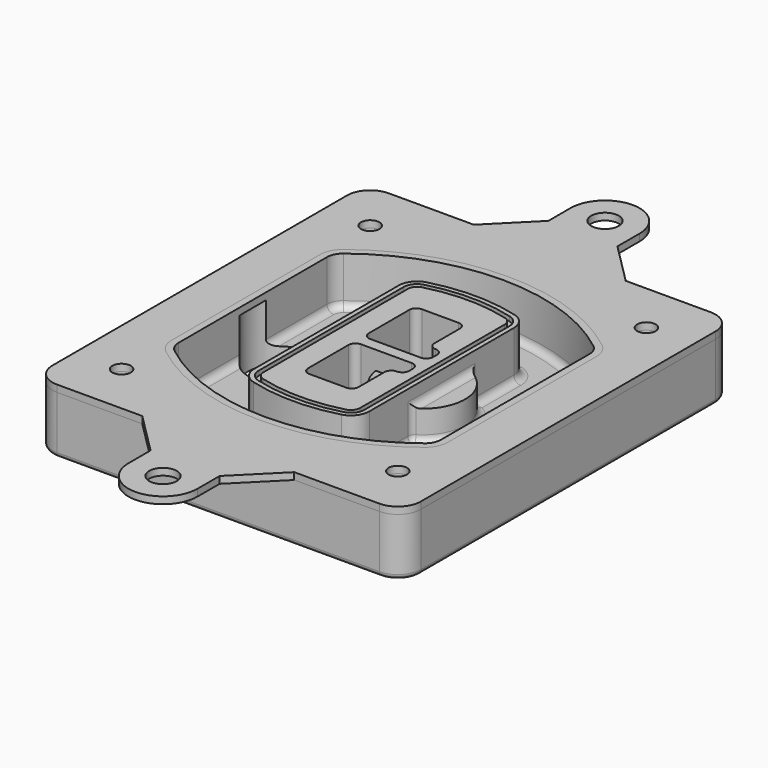
from build123d import *

# Parameters (mm, degrees)
F0_R      = 4
F1_DEPTH  = 25
F2_DEPTH  = 3
F3_DEPTH  = 18
F5_DEPTH  = 21
F6_DEPTH  = 2
F8_DEPTH  = 20
F9_DEPTH  = 16
F10_DEPTH = 25
F7_R      = 6
F7_R_2    = 4
F11_DEPTH = 6
F13_DEPTH = 9
F14_R     = 3
F15_R     = 2
F16_R     = 4
F16_R_2   = 6
F17_DEPTH = 3


with BuildPart() as f1:
    # F0 (on Top) → F1 (new body)
    with BuildSketch(Plane.XY):
        with BuildLine():
            ThreePointArc((-80, -80), (-77.0710678119, -87.0710678119), (-70, -90))
            Line((-70, -90), (70, -90))
            ThreePointArc((70, -90), (77.0710678119, -87.0710678119), (80, -80))
            Line((80, -80), (80, 80))
            ThreePointArc((80, 80), (77.0710678119, 87.0710678119), (70, 90))
            Line((70, 90), (-70, 90))
            ThreePointArc((-70, 90), (-77.0710678119, 87.0710678119), (-80, 80))
            Line((-80, 80), (-80, -80))
        make_face()
        with Locations((-60, -67.5)):
            Circle(F0_R, mode=Mode.SUBTRACT)
        with Locations((60, -67.5)):
            Circle(F0_R, mode=Mode.SUBTRACT)
        with Locations((-60, 67.5)):
            Circle(F0_R, mode=Mode.SUBTRACT)
        with BuildLine():
            ThreePointArc((-64, 40.2934422872), (-62.5820384798, 46.4328484224), (-58.6153846154, 51.3286200352))
            ThreePointArc((-58.6153846154, 51.3286200352), (0, 71.5), (58.6153846154, 51.3286200352))
            ThreePointArc((58.6153846154, 51.3286200352), (62.5820384798, 46.4328484224), (64, 40.2934422872))
            Line((64, 40.2934422872), (64, -40.2934422872))
            ThreePointArc((64, -40.2934422872), (62.5820384798, -46.4328484224), (58.6153846154, -51.3286200352))
            ThreePointArc((58.6153846154, -51.3286200352), (0, -71.5), (-58.6153846154, -51.3286200352))
            ThreePointArc((-58.6153846154, -51.3286200352), (-62.5820384798, -46.4328484224), (-64, -40.2934422872))
            Line((-64, -40.2934422872), (-64, 40.2934422872))
        make_face(mode=Mode.SUBTRACT)
        with Locations((60, 67.5)):
            Circle(F0_R, mode=Mode.SUBTRACT)
        with BuildLine():
            ThreePointArc((58.6153846154, 51.3286200352), (0, 71.5), (-58.6153846154, 51.3286200352))
            ThreePointArc((-58.6153846154, 51.3286200352), (-62.5820384798, 46.4328484224), (-64, 40.2934422872))
            Line((-64, 40.2934422872), (-64, -40.2934422872))
            ThreePointArc((-64, -40.2934422872), (-62.5820384798, -46.4328484224), (-58.6153846154, -51.3286200352))
            ThreePointArc((-58.6153846154, -51.3286200352), (0, -71.5), (58.6153846154, -51.3286200352))
            ThreePointArc((58.6153846154, -51.3286200352), (62.5820384798, -46.4328484224), (64, -40.2934422872))
            Line((64, -40.2934422872), (64, 40.2934422872))
            ThreePointArc((64, 40.2934422872), (62.5820384798, 46.4328484224), (58.6153846154, 51.3286200352))
        make_face()
        with BuildLine():
            Line((-60, -40.2934422872), (-60, 40.2934422872))
            ThreePointArc((-60, 40.2934422872), (-58.9871703427, 44.6787323838), (-56.1538461538, 48.1757121072))
            ThreePointArc((-56.1538461538, 48.1757121072), (0, 67.5), (56.1538461538, 48.1757121072))
            ThreePointArc((56.1538461538, 48.1757121072), (58.9871703427, 44.6787323838), (60, 40.2934422872))
            Line((60, 40.2934422872), (60, -40.2934422872))
            ThreePointArc((60, -40.2934422872), (58.9871703427, -44.6787323838), (56.1538461538, -48.1757121072))
            ThreePointArc((56.1538461538, -48.1757121072), (0, -67.5), (-56.1538461538, -48.1757121072))
            ThreePointArc((-56.1538461538, -48.1757121072), (-58.9871703427, -44.6787323838), (-60, -40.2934422872))
        make_face(mode=Mode.SUBTRACT)
        with BuildLine():
            ThreePointArc((-56.1538461538, 48.1757121072), (-58.9871703427, 44.6787323838), (-60, 40.2934422872))
            Line((-60, 40.2934422872), (-60, -40.2934422872))
            ThreePointArc((-60, -40.2934422872), (-58.9871703427, -44.6787323838), (-56.1538461538, -48.1757121072))
            ThreePointArc((-56.1538461538, -48.1757121072), (0, -67.5), (56.1538461538, -48.1757121072))
            ThreePointArc((56.1538461538, -48.1757121072), (58.9871703427, -44.6787323838), (60, -40.2934422872))
            Line((60, -40.2934422872), (60, 40.2934422872))
            ThreePointArc((60, 40.2934422872), (58.9871703427, 44.6787323838), (56.1538461538, 48.1757121072))
            ThreePointArc((56.1538461538, 48.1757121072), (0, 67.5), (-56.1538461538, 48.1757121072))
        make_face()
        with BuildLine():
            ThreePointArc((54.3076923077, 45.8110311612), (56.2910192399, 43.3631453548), (57, 40.2934422872))
            Line((57, 40.2934422872), (57, -40.2934422872))
            ThreePointArc((57, -40.2934422872), (56.2910192399, -43.3631453548), (54.3076923077, -45.8110311612))
            ThreePointArc((54.3076923077, -45.8110311612), (0, -64.5), (-54.3076923077, -45.8110311612))
            ThreePointArc((-54.3076923077, -45.8110311612), (-56.2910192399, -43.3631453548), (-57, -40.2934422872))
            Line((-57, -40.2934422872), (-57, 40.2934422872))
            ThreePointArc((-57, 40.2934422872), (-56.2910192399, 43.3631453548), (-54.3076923077, 45.8110311612))
            ThreePointArc((-54.3076923077, 45.8110311612), (0, 64.5), (54.3076923077, 45.8110311612))
        make_face(mode=Mode.SUBTRACT)
        with BuildLine():
            Line((57, -40.2934422872), (57, 40.2934422872))
            ThreePointArc((57, 40.2934422872), (56.2910192399, 43.3631453548), (54.3076923077, 45.8110311612))
            ThreePointArc((54.3076923077, 45.8110311612), (0, 64.5), (-54.3076923077, 45.8110311612))
            ThreePointArc((-54.3076923077, 45.8110311612), (-56.2910192399, 43.3631453548), (-57, 40.2934422872))
            Line((-57, 40.2934422872), (-57, -40.2934422872))
            ThreePointArc((-57, -40.2934422872), (-56.2910192399, -43.3631453548), (-54.3076923077, -45.8110311612))
            ThreePointArc((-54.3076923077, -45.8110311612), (0, -64.5), (54.3076923077, -45.8110311612))
            ThreePointArc((54.3076923077, -45.8110311612), (56.2910192399, -43.3631453548), (57, -40.2934422872))
        make_face()
    extrude(amount=-F1_DEPTH)

    # F0 (on Top) → F2 (join)
    with BuildSketch(Plane.XY):
        with BuildLine():
            ThreePointArc((-56.1538461538, 48.1757121072), (-58.9871703427, 44.6787323838), (-60, 40.2934422872))
            Line((-60, 40.2934422872), (-60, -40.2934422872))
            ThreePointArc((-60, -40.2934422872), (-58.9871703427, -44.6787323838), (-56.1538461538, -48.1757121072))
            ThreePointArc((-56.1538461538, -48.1757121072), (0, -67.5), (56.1538461538, -48.1757121072))
            ThreePointArc((56.1538461538, -48.1757121072), (58.9871703427, -44.6787323838), (60, -40.2934422872))
            Line((60, -40.2934422872), (60, 40.2934422872))
            ThreePointArc((60, 40.2934422872), (58.9871703427, 44.6787323838), (56.1538461538, 48.1757121072))
            ThreePointArc((56.1538461538, 48.1757121072), (0, 67.5), (-56.1538461538, 48.1757121072))
        make_face()
        with BuildLine():
            ThreePointArc((54.3076923077, 45.8110311612), (56.2910192399, 43.3631453548), (57, 40.2934422872))
            Line((57, 40.2934422872), (57, -40.2934422872))
            ThreePointArc((57, -40.2934422872), (56.2910192399, -43.3631453548), (54.3076923077, -45.8110311612))
            ThreePointArc((54.3076923077, -45.8110311612), (0, -64.5), (-54.3076923077, -45.8110311612))
            ThreePointArc((-54.3076923077, -45.8110311612), (-56.2910192399, -43.3631453548), (-57, -40.2934422872))
            Line((-57, -40.2934422872), (-57, 40.2934422872))
            ThreePointArc((-57, 40.2934422872), (-56.2910192399, 43.3631453548), (-54.3076923077, 45.8110311612))
            ThreePointArc((-54.3076923077, 45.8110311612), (0, 64.5), (54.3076923077, 45.8110311612))
        make_face(mode=Mode.SUBTRACT)
    extrude(amount=F2_DEPTH)

    # F0 (on Top) → F3 (cut)
    with BuildSketch(Plane.XY):
        with BuildLine():
            Line((57, -40.2934422872), (57, 40.2934422872))
            ThreePointArc((57, 40.2934422872), (56.2910192399, 43.3631453548), (54.3076923077, 45.8110311612))
            ThreePointArc((54.3076923077, 45.8110311612), (0, 64.5), (-54.3076923077, 45.8110311612))
            ThreePointArc((-54.3076923077, 45.8110311612), (-56.2910192399, 43.3631453548), (-57, 40.2934422872))
            Line((-57, 40.2934422872), (-57, -40.2934422872))
            ThreePointArc((-57, -40.2934422872), (-56.2910192399, -43.3631453548), (-54.3076923077, -45.8110311612))
            ThreePointArc((-54.3076923077, -45.8110311612), (0, -64.5), (54.3076923077, -45.8110311612))
            ThreePointArc((54.3076923077, -45.8110311612), (56.2910192399, -43.3631453548), (57, -40.2934422872))
        make_face()
    extrude(amount=-F3_DEPTH, mode=Mode.SUBTRACT)

    # F4 (on face) → F5 (join, through all)
    with BuildSketch(Plane.XY.offset(3)):
        with BuildLine():
            ThreePointArc((-25, -39.2465276821), (-23.3511545998, -44.1109737193), (-19.0842911877, -46.9702398883))
            ThreePointArc((-19.0842911877, -46.9702398883), (0, -49.5), (19.0842911877, -46.9702398883))
            ThreePointArc((19.0842911877, -46.9702398883), (23.3511545998, -44.1109737193), (25, -39.2465276821))
            Line((25, -39.2465276821), (25, 39.2465276821))
            ThreePointArc((25, 39.2465276821), (23.3511545998, 44.1109737193), (19.0842911877, 46.9702398883))
            ThreePointArc((19.0842911877, 46.9702398883), (0, 49.5), (-19.0842911877, 46.9702398883))
            ThreePointArc((-19.0842911877, 46.9702398883), (-23.3511545998, 44.1109737193), (-25, 39.2465276821))
            Line((-25, 39.2465276821), (-25, -39.2465276821))
        make_face()
        with BuildLine():
            ThreePointArc((18.5632183908, 45.0393118368), (21.7633659499, 42.89486221), (23, 39.2465276821))
            Line((23, 39.2465276821), (23, -39.2465276821))
            ThreePointArc((23, -39.2465276821), (21.7633659499, -42.89486221), (18.5632183908, -45.0393118368))
            ThreePointArc((18.5632183908, -45.0393118368), (0, -47.5), (-18.5632183908, -45.0393118368))
            ThreePointArc((-18.5632183908, -45.0393118368), (-21.7633659499, -42.89486221), (-23, -39.2465276821))
            Line((-23, -39.2465276821), (-23, 39.2465276821))
            ThreePointArc((-23, 39.2465276821), (-21.7633659499, 42.89486221), (-18.5632183908, 45.0393118368))
            ThreePointArc((-18.5632183908, 45.0393118368), (0, 47.5), (18.5632183908, 45.0393118368))
        make_face(mode=Mode.SUBTRACT)
        with BuildLine():
            Line((23, -39.2465276821), (23, 39.2465276821))
            ThreePointArc((23, 39.2465276821), (21.7633659499, 42.89486221), (18.5632183908, 45.0393118368))
            ThreePointArc((18.5632183908, 45.0393118368), (0, 47.5), (-18.5632183908, 45.0393118368))
            ThreePointArc((-18.5632183908, 45.0393118368), (-21.7633659499, 42.89486221), (-23, 39.2465276821))
            Line((-23, 39.2465276821), (-23, -39.2465276821))
            ThreePointArc((-23, -39.2465276821), (-21.7633659499, -42.89486221), (-18.5632183908, -45.0393118368))
            ThreePointArc((-18.5632183908, -45.0393118368), (0, -47.5), (18.5632183908, -45.0393118368))
            ThreePointArc((18.5632183908, -45.0393118368), (21.7633659499, -42.89486221), (23, -39.2465276821))
        make_face()
        with BuildLine():
            ThreePointArc((18.0421455939, 43.1083837852), (20.1755772999, 41.6787507007), (21, 39.2465276821))
            Line((21, 39.2465276821), (21, -39.2465276821))
            ThreePointArc((21, -39.2465276821), (20.1755772999, -41.6787507007), (18.0421455939, -43.1083837852))
            ThreePointArc((18.0421455939, -43.1083837852), (0, -45.5), (-18.0421455939, -43.1083837852))
            ThreePointArc((-18.0421455939, -43.1083837852), (-20.1755772999, -41.6787507007), (-21, -39.2465276821))
            Line((-21, -39.2465276821), (-21, 39.2465276821))
            ThreePointArc((-21, 39.2465276821), (-20.1755772999, 41.6787507007), (-18.0421455939, 43.1083837852))
            ThreePointArc((-18.0421455939, 43.1083837852), (0, 45.5), (18.0421455939, 43.1083837852))
        make_face(mode=Mode.SUBTRACT)
        with BuildLine():
            Line((21, -39.2465276821), (21, 39.2465276821))
            ThreePointArc((21, 39.2465276821), (20.1755772999, 41.6787507007), (18.0421455939, 43.1083837852))
            ThreePointArc((18.0421455939, 43.1083837852), (0, 45.5), (-18.0421455939, 43.1083837852))
            ThreePointArc((-18.0421455939, 43.1083837852), (-20.1755772999, 41.6787507007), (-21, 39.2465276821))
            Line((-21, 39.2465276821), (-21, -39.2465276821))
            ThreePointArc((-21, -39.2465276821), (-20.1755772999, -41.6787507007), (-18.0421455939, -43.1083837852))
            ThreePointArc((-18.0421455939, -43.1083837852), (0, -45.5), (18.0421455939, -43.1083837852))
            ThreePointArc((18.0421455939, -43.1083837852), (20.1755772999, -41.6787507007), (21, -39.2465276821))
        make_face()
        with BuildLine():
            Line((-8, -2.5), (14, -2.5))
            ThreePointArc((14, -2.5), (16.1213203436, -3.3786796564), (17, -5.5))
            Line((17, -5.5), (17, -7.5))
            ThreePointArc((17, -7.5), (16.1213203436, -9.6213203436), (14, -10.5))
            ThreePointArc((14, -10.5), (11.8786796564, -11.3786796564), (11, -13.5))
            Line((11, -13.5), (11, -27.5))
            ThreePointArc((11, -27.5), (10.1213203436, -29.6213203436), (8, -30.5))
            Line((8, -30.5), (-8, -30.5))
            ThreePointArc((-8, -30.5), (-10.1213203436, -29.6213203436), (-11, -27.5))
            Line((-11, -27.5), (-11, -5.5))
            ThreePointArc((-11, -5.5), (-10.1213203436, -3.3786796564), (-8, -2.5))
        make_face(mode=Mode.SUBTRACT)
        with BuildLine():
            ThreePointArc((-8, 2.5), (-10.1213203436, 3.3786796564), (-11, 5.5))
            Line((-11, 5.5), (-11, 27.5))
            ThreePointArc((-11, 27.5), (-10.1213203436, 29.6213203436), (-8, 30.5))
            Line((-8, 30.5), (8, 30.5))
            ThreePointArc((8, 30.5), (10.1213203436, 29.6213203436), (11, 27.5))
            Line((11, 27.5), (11, 13.5))
            ThreePointArc((11, 13.5), (11.8786796564, 11.3786796564), (14, 10.5))
            ThreePointArc((14, 10.5), (16.1213203436, 9.6213203436), (17, 7.5))
            Line((17, 7.5), (17, 5.5))
            ThreePointArc((17, 5.5), (16.1213203436, 3.3786796564), (14, 2.5))
            Line((14, 2.5), (-8, 2.5))
        make_face(mode=Mode.SUBTRACT)
    extrude(amount=-F5_DEPTH)

    # F4 (on face) → F6 (cut)
    with BuildSketch(Plane.XY.offset(3)):
        with BuildLine():
            Line((23, -39.2465276821), (23, 39.2465276821))
            ThreePointArc((23, 39.2465276821), (21.7633659499, 42.89486221), (18.5632183908, 45.0393118368))
            ThreePointArc((18.5632183908, 45.0393118368), (0, 47.5), (-18.5632183908, 45.0393118368))
            ThreePointArc((-18.5632183908, 45.0393118368), (-21.7633659499, 42.89486221), (-23, 39.2465276821))
            Line((-23, 39.2465276821), (-23, -39.2465276821))
            ThreePointArc((-23, -39.2465276821), (-21.7633659499, -42.89486221), (-18.5632183908, -45.0393118368))
            ThreePointArc((-18.5632183908, -45.0393118368), (0, -47.5), (18.5632183908, -45.0393118368))
            ThreePointArc((18.5632183908, -45.0393118368), (21.7633659499, -42.89486221), (23, -39.2465276821))
        make_face()
        with BuildLine():
            ThreePointArc((18.0421455939, 43.1083837852), (20.1755772999, 41.6787507007), (21, 39.2465276821))
            Line((21, 39.2465276821), (21, -39.2465276821))
            ThreePointArc((21, -39.2465276821), (20.1755772999, -41.6787507007), (18.0421455939, -43.1083837852))
            ThreePointArc((18.0421455939, -43.1083837852), (0, -45.5), (-18.0421455939, -43.1083837852))
            ThreePointArc((-18.0421455939, -43.1083837852), (-20.1755772999, -41.6787507007), (-21, -39.2465276821))
            Line((-21, -39.2465276821), (-21, 39.2465276821))
            ThreePointArc((-21, 39.2465276821), (-20.1755772999, 41.6787507007), (-18.0421455939, 43.1083837852))
            ThreePointArc((-18.0421455939, 43.1083837852), (0, 45.5), (18.0421455939, 43.1083837852))
        make_face(mode=Mode.SUBTRACT)
    extrude(amount=-F6_DEPTH, mode=Mode.SUBTRACT)

    # F7 (on face) → F8 (join)
    with BuildSketch(Plane(origin=(0, 0, -25), x_dir=(1, 0, 0), z_dir=(0, 0, -1))):
        with BuildLine():
            ThreePointArc((3.28842436, 0), (16.7567035675, 13.4682792075), (30.224982775, 0))
            Line((30.224982775, 0), (35.224982775, 0))
            ThreePointArc((35.224982775, 0), (16.7567035675, 18.4682792075), (-1.71157564, 0))
            Line((-1.71157564, 0), (3.28842436, 0))
        make_face()
        with BuildLine():
            Line((3.28842436, 0), (30.224982775, 0))
            ThreePointArc((30.224982775, 0), (16.7567035675, 13.4682792075), (3.28842436, 0))
        make_face()
        with BuildLine():
            ThreePointArc((3.28842436, 0), (16.7567035675, -13.4682792075), (30.224982775, 0))
            Line((30.224982775, 0), (3.28842436, 0))
        make_face()
        with BuildLine():
            Line((35.224982775, 0), (30.224982775, 0))
            ThreePointArc((30.224982775, 0), (16.7567035675, -13.4682792075), (3.28842436, 0))
            Line((3.28842436, 0), (-1.71157564, 0))
            ThreePointArc((-1.71157564, 0), (16.7567035675, -18.4682792075), (35.224982775, 0))
        make_face()
    extrude(amount=-F8_DEPTH)

    # F7 (on face) → F9 (cut)
    with BuildSketch(Plane(origin=(0, 0, -25), x_dir=(1, 0, 0), z_dir=(0, 0, -1))):
        with BuildLine():
            Line((3.28842436, 0), (30.224982775, 0))
            ThreePointArc((30.224982775, 0), (16.7567035675, 13.4682792075), (3.28842436, 0))
        make_face()
        with BuildLine():
            ThreePointArc((3.28842436, 0), (16.7567035675, -13.4682792075), (30.224982775, 0))
            Line((30.224982775, 0), (3.28842436, 0))
        make_face()
    extrude(amount=-F9_DEPTH, mode=Mode.SUBTRACT)

    # F7 (on face) → F10 (cut)
    with BuildSketch(Plane(origin=(0, 0, -25), x_dir=(1, 0, 0), z_dir=(0, 0, -1))):
        with BuildLine():
            Line((-59.0318229325, 0), (-32.0952645175, 0))
            ThreePointArc((-32.0952645175, 0), (-45.563543725, 13.4682792075), (-59.0318229325, 0))
        make_face()
        with BuildLine():
            ThreePointArc((-59.0318229325, 0), (-45.563543725, -13.4682792075), (-32.0952645175, 0))
            Line((-32.0952645175, 0), (-59.0318229325, 0))
        make_face()
    extrude(amount=-F10_DEPTH, mode=Mode.SUBTRACT)

    # F7 (on face) → F11 (cut)
    with BuildSketch(Plane(origin=(0, 0, -25), x_dir=(1, 0, 0), z_dir=(0, 0, -1))):
        with Locations((60, -67.5)):
            Circle(F7_R)
        with Locations((60, -67.5)):
            Circle(F7_R_2, mode=Mode.SUBTRACT)
        with Locations((60, -67.5)):
            Circle(F7_R)
        with Locations((60, -67.5)):
            Circle(F7_R_2, mode=Mode.SUBTRACT)
        with Locations((-60, -67.5)):
            Circle(F7_R)
        with Locations((-60, -67.5)):
            Circle(F7_R_2, mode=Mode.SUBTRACT)
        with Locations((-60, -67.5)):
            Circle(F7_R)
        with Locations((-60, -67.5)):
            Circle(F7_R_2, mode=Mode.SUBTRACT)
        with Locations((-60, 67.5)):
            Circle(F7_R)
        with Locations((-60, 67.5)):
            Circle(F7_R_2, mode=Mode.SUBTRACT)
        with Locations((-60, 67.5)):
            Circle(F7_R)
        with Locations((-60, 67.5)):
            Circle(F7_R_2, mode=Mode.SUBTRACT)
        with Locations((60, 67.5)):
            Circle(F7_R)
        with Locations((60, 67.5)):
            Circle(F7_R_2, mode=Mode.SUBTRACT)
        with Locations((60, 67.5)):
            Circle(F7_R)
        with Locations((60, 67.5)):
            Circle(F7_R_2, mode=Mode.SUBTRACT)
    extrude(amount=-F11_DEPTH, mode=Mode.SUBTRACT)

    # F12 (on face) → F13 (cut, through all)
    with BuildSketch(Plane(origin=(0, 0, -9), x_dir=(1, 0, 0), z_dir=(0, 0, -1))):
        with BuildLine():
            Line((11, 13.5), (11, 17.5481537753))
            ThreePointArc((11, 17.5481537753), (2.5696536419, 11.8239143813), (-1.5415842455, 2.5))
            Line((-1.5415842455, 2.5), (3.5224848595, 2.5))
            ThreePointArc((3.5224848595, 2.5), (6.1857188154, 8.3455872281), (11.2536447004, 12.2927168648))
            ThreePointArc((11.2536447004, 12.2927168648), (11.0640958889, 12.8831798879), (11, 13.5))
        make_face()
        with BuildLine():
            ThreePointArc((11.2536447004, -12.2927168648), (6.1857188154, -8.3455872281), (3.5224848595, -2.5))
            Line((3.5224848595, -2.5), (-1.5415842455, -2.5))
            ThreePointArc((-1.5415842455, -2.5), (2.5696536419, -11.8239143813), (11, -17.5481537753))
            Line((11, -17.5481537753), (11, -13.5))
            ThreePointArc((11, -13.5), (11.0640958889, -12.8831798879), (11.2536447004, -12.2927168648))
        make_face()
        with BuildLine():
            ThreePointArc((11.2536447004, 12.2927168648), (6.1857188154, 8.3455872281), (3.5224848595, 2.5))
            Line((3.5224848595, 2.5), (14, 2.5))
            ThreePointArc((14, 2.5), (16.1213203436, 3.3786796564), (17, 5.5))
            Line((17, 5.5), (17, 7.5))
            ThreePointArc((17, 7.5), (16.1213203436, 9.6213203436), (14, 10.5))
            ThreePointArc((14, 10.5), (12.3601599782, 10.9878446101), (11.2536447004, 12.2927168648))
        make_face()
        with BuildLine():
            Line((14, -2.5), (3.5224848595, -2.5))
            ThreePointArc((3.5224848595, -2.5), (6.1857188154, -8.3455872281), (11.2536447004, -12.2927168648))
            ThreePointArc((11.2536447004, -12.2927168648), (12.3601599782, -10.9878446101), (14, -10.5))
            ThreePointArc((14, -10.5), (16.1213203436, -9.6213203436), (17, -7.5))
            Line((17, -7.5), (17, -5.5))
            ThreePointArc((17, -5.5), (16.1213203436, -3.3786796564), (14, -2.5))
        make_face()
    extrude(amount=F13_DEPTH, mode=Mode.SUBTRACT)

    # F14
    f14_edges = [f1.edges().sort_by_distance(p)[0] for p in [
        (-57, -23.703476, -18),
        (-57, 23.703476, -18),
        (25, 0, -5),
        (25, 16.526506, -11.5),
        (25, -16.526506, -11.5),
        (25, -27.886517, -18),
        (35.224983, 0, -18),
    ]]
    fillet(f14_edges, radius=F14_R)

    # F15
    f15_edges = [f1.edges().sort_by_distance(p)[0] for p in [
        (0, -90, -25),
    ]]
    fillet(f15_edges, radius=F15_R)


with BuildPart() as f17:
    # F16 (on face) → F17 (new body, through all)
    with BuildSketch(Plane.XY):
        with BuildLine():
            Line((-33, 90), (-70, 90))
            ThreePointArc((-70, 90), (-77.0710678119, 87.0710678119), (-80, 80))
            Line((-80, 80), (-80, -80))
            ThreePointArc((-80, -80), (-77.0710678119, -87.0710678119), (-70, -90))
            Line((-70, -90), (-33, -90))
            Line((-33, -90), (33, -90))
            Line((33, -90), (70, -90))
            ThreePointArc((70, -90), (77.0710678119, -87.0710678119), (80, -80))
            Line((80, -80), (80, 80))
            ThreePointArc((80, 80), (77.0710678119, 87.0710678119), (70, 90))
            Line((70, 90), (33, 90))
            Line((33, 90), (-33, 90))
        make_face()
        with Locations((-60, -67.5)):
            Circle(F16_R, mode=Mode.SUBTRACT)
        with Locations((60, -67.5)):
            Circle(F16_R, mode=Mode.SUBTRACT)
        with Locations((-60, 67.5)):
            Circle(F16_R, mode=Mode.SUBTRACT)
        with BuildLine():
            ThreePointArc((-60, 40.2934422872), (-58.9871703427, 44.6787323838), (-56.1538461538, 48.1757121072))
            ThreePointArc((-56.1538461538, 48.1757121072), (0, 67.5), (56.1538461538, 48.1757121072))
            ThreePointArc((56.1538461538, 48.1757121072), (58.9871703427, 44.6787323838), (60, 40.2934422872))
            Line((60, 40.2934422872), (60, -40.2934422872))
            ThreePointArc((60, -40.2934422872), (58.9871703427, -44.6787323838), (56.1538461538, -48.1757121072))
            ThreePointArc((56.1538461538, -48.1757121072), (0, -67.5), (-56.1538461538, -48.1757121072))
            ThreePointArc((-56.1538461538, -48.1757121072), (-58.9871703427, -44.6787323838), (-60, -40.2934422872))
            Line((-60, -40.2934422872), (-60, 40.2934422872))
        make_face(mode=Mode.SUBTRACT)
        with Locations((60, 67.5)):
            Circle(F16_R, mode=Mode.SUBTRACT)
        with BuildLine():
            Line((-15, 108), (-33, 90))
            Line((-33, 90), (33, 90))
            Line((33, 90), (15, 108))
            Line((15, 108), (15, 120))
            ThreePointArc((15, 120), (0, 135), (-15, 120))
            Line((-15, 120), (-15, 108))
        make_face()
        with Locations((0, 120)):
            Circle(F16_R_2, mode=Mode.SUBTRACT)
        with BuildLine():
            Line((33, -90), (-33, -90))
            Line((-33, -90), (-15, -108))
            Line((-15, -108), (-15, -120))
            ThreePointArc((-15, -120), (0, -135), (15, -120))
            Line((15, -120), (15, -108))
            Line((15, -108), (33, -90))
        make_face()
        with Locations((0, -120)):
            Circle(F16_R_2, mode=Mode.SUBTRACT)
        with BuildLine():
            Line((-15, 108), (-33, 90))
            Line((-33, 90), (33, 90))
            Line((33, 90), (15, 108))
            Line((15, 108), (15, 120))
            ThreePointArc((15, 120), (0, 135), (-15, 120))
            Line((-15, 120), (-15, 108))
        make_face()
        with Locations((0, 120)):
            Circle(F16_R_2, mode=Mode.SUBTRACT)
    extrude(amount=F17_DEPTH)


solid = Compound([f1.part, f17.part])
